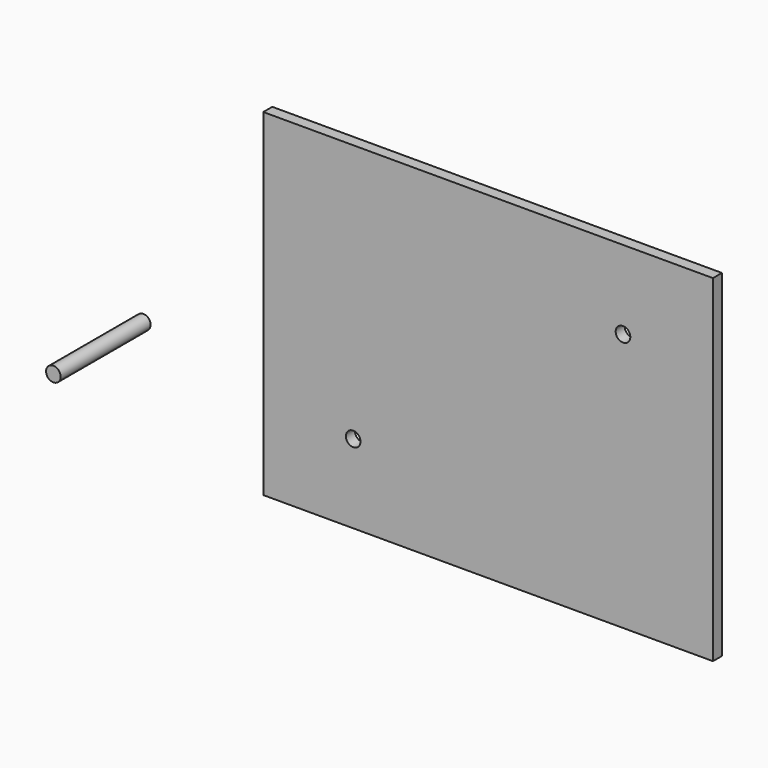
from build123d import *

# Parameters (mm, degrees)
F0_W     = 200
F0_H     = 150
F0_R     = 3.25
F1_DEPTH = 5
F2_DEPTH = 50


with BuildPart() as f1:
    # F0 (on Front) → F1 (new body)
    with BuildSketch(Plane.XZ):
        with Locations((5.435148, 23.451307)):
            Rectangle(F0_W, F0_H)
        with Locations((-54.564852, -16.548693)):
            Circle(F0_R, mode=Mode.SUBTRACT)
        with Locations((65.435148, 63.451307)):
            Circle(F0_R, mode=Mode.SUBTRACT)
    extrude(amount=F1_DEPTH)


with BuildPart() as f2:
    # F0 (on Front) → F2 (new body)
    with BuildSketch(Plane.XZ):
        with Locations((-151.921034, -4.517194)):
            Circle(F0_R)
    extrude(amount=F2_DEPTH)


solid = Compound([f1.part, f2.part])
